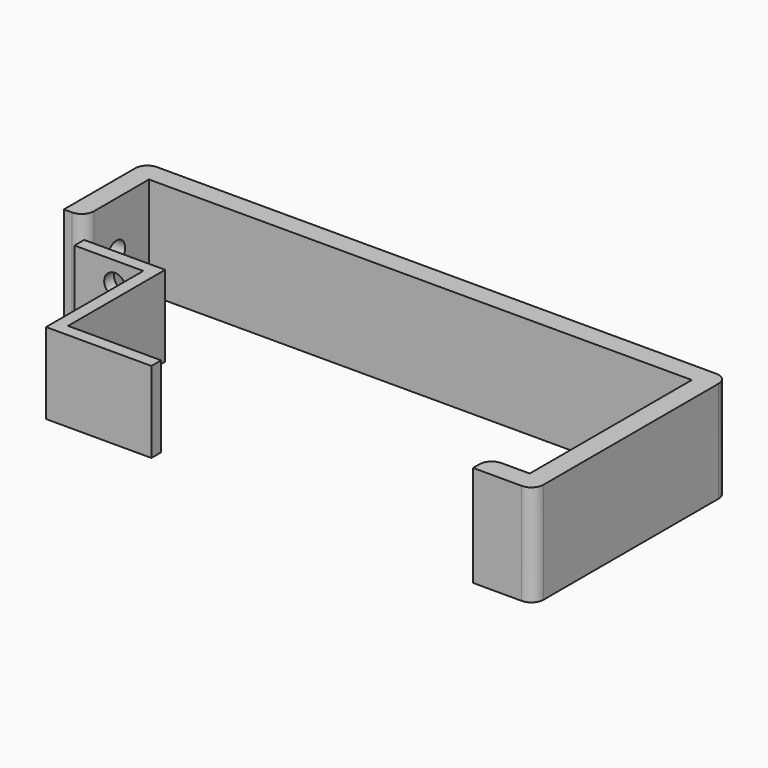
from build123d import *

# Parameters (mm, degrees)
F1_DEPTH  = 25
F2_R      = 2.65
F3_DEPTH  = 5
F5_W      = 40
F5_H      = 20
F5_R      = 2.65
F6_DEPTH  = 3
F7_R      = 1
F10_DEPTH = 20
F11_R     = 2.65
F12_DEPTH = 3


with BuildPart() as f1:
    # F0 (on Top) → F1 (new body)
    with BuildSketch(Plane.XY):
        with BuildLine():
            Line((83.740353, 0), (-54.259647, 0))
            ThreePointArc((-54.259647, 0), (-56.380968, -0.87868), (-57.259647, -3))
            Line((-57.259647, -3), (-57.259647, -25))
            Line((-57.259647, -25), (-55.259647, -25))
            ThreePointArc((-55.259647, -25), (-53.138327, -24.12132), (-52.259647, -22))
            Line((-52.259647, -22), (-52.259647, -5))
            Line((-52.259647, -5), (81.740353, -5))
            Line((81.740353, -5), (81.740353, -55))
            Line((81.740353, -55), (74.740353, -55))
            ThreePointArc((74.740353, -55), (72.619032, -55.87868), (71.740353, -58))
            Line((71.740353, -58), (71.740353, -60))
            Line((71.740353, -60), (83.740353, -60))
            ThreePointArc((83.740353, -60), (85.861673, -59.12132), (86.740353, -57))
            Line((86.740353, -57), (86.740353, -3))
            ThreePointArc((86.740353, -3), (85.861673, -0.87868), (83.740353, 0))
        make_face()
    extrude(amount=F1_DEPTH)

    # F2 (on face) → F3 (cut, through all)
    with BuildSketch(Plane.YZ.offset(-52.259647)):
        with Locations((-15, 13.165697)):
            Circle(F2_R)
    extrude(amount=-F3_DEPTH, mode=Mode.SUBTRACT)


with BuildPart() as f6:
    # F5 (on offset) → F6 (new body)
    with BuildSketch(Plane.XZ.offset(60.9)):
        with Locations((-37.213471, 10)):
            Rectangle(F5_W, F5_H)
        with Locations((-47.213471, 5.012961)):
            Circle(F5_R, mode=Mode.SUBTRACT)
        with Locations((-47.213471, 14.988404)):
            Circle(F5_R, mode=Mode.SUBTRACT)
    extrude(amount=F6_DEPTH)

    # F7
    f7_edges = [f6.edges().sort_by_distance(p)[0] for p in [
        (-37.213471, -63.9, 20),
        (-37.213471, -60.9, 20),
        (-37.213471, -63.9, 0),
        (-37.213471, -60.9, 0),
        (-17.213471, -63.9, 10),
        (-17.213471, -60.9, 10),
        (-57.213471, -63.9, 10),
        (-57.213471, -60.9, 10),
    ]]
    fillet(f7_edges, radius=F7_R)


with BuildPart() as f10:
    # F9 (on Top) → F10 (new body)
    with BuildSketch(Plane.XY):
        Polygon((-32.259647, -25), (-52.259647, -25), (-52.259647, -28), (-35.259647, -28), (-35.259647, -58), (-9.259647, -58), (-9.259647, -55), (-32.259647, -54.963204), align=None)
    extrude(amount=F10_DEPTH)

    # F11 (on face) → F12 (cut, through all)
    with BuildSketch(Plane.XZ.offset(28)):
        with Locations((-42.259647, 14.658243)):
            Circle(F11_R)
        with Locations((-42.259647, 5.341757)):
            Circle(F11_R)
    extrude(amount=-F12_DEPTH, mode=Mode.SUBTRACT)


solid = Compound([f1.part, f10.part])
